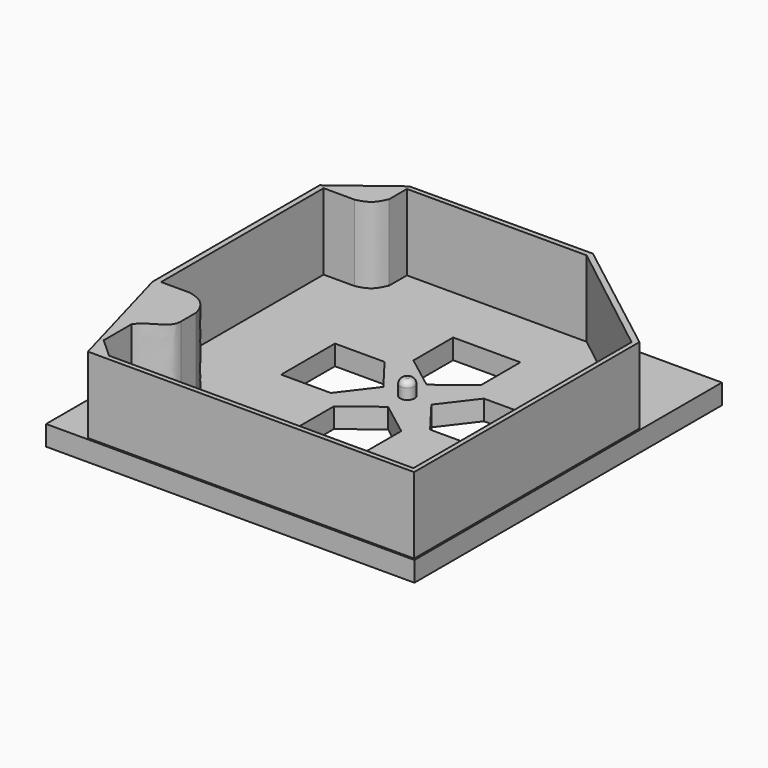
from build123d import *

# Parameters (mm, degrees)
F0_W     = 460
F0_H     = 480
F1_DEPTH = 25
F3_DEPTH = 120
F5_DEPTH = 25
F4_R     = 9
F6_DEPTH = 45
F7_R     = 7


with BuildPart() as f1:
    # F0 (on Top) → F1 (new body)
    with BuildSketch(Plane.XY):
        with Locations((-7.875566, -26.590223)):
            Rectangle(F0_W, F0_H)
    extrude(amount=F1_DEPTH)

    # F2 (on Top) → F3 (join)
    with BuildSketch(Plane.XY):
        Polygon((67.823559, 204.918116), (-160.820395, 204.088688), (-230.491832, 151.282176), (-230.491832, -109.70924), (-187.456321, -264.258176), (219.884232, -264.258176), (219.884232, 87.416694), align=None)
        with BuildLine():
            Line((-159.161553, 170.635357), (-159.161553, 198.282734))
            Line((-159.161553, 198.282734), (65.256598, 198.282734))
            Line((65.256598, 198.282734), (214.078277, 82.440153))
            Line((214.078277, 82.440153), (214.078277, -258.175731))
            Line((214.078277, -258.175731), (-166.073412, -258.175731))
            Line((-166.073412, -258.175731), (-190.403104, -235.951498))
            Line((-190.403104, -235.951498), (-190.403104, -192.651421))
            add(Edge.make_bspline(
                [(-156.396821, -157.539219), (-156.12036, -176.339447), (-179.620609, -176.062971), (-190.403104, -192.651421)],
                knots=[0, 0, 0, 0, 48.880405, 48.880405, 48.880405, 48.880405], degree=3))
            Line((-156.396821, -157.539219), (-156.396821, -134.315416))
            add(Edge.make_bspline(
                [(-156.396821, -134.315416), (-159.714505, -120.768197), (-167.455778, -109.156288), (-187.638372, -105.009183)],
                knots=[0, 0, 0, 0, 42.835614, 42.835614, 42.835614, 42.835614], degree=3))
            Line((-187.638372, -105.009183), (-223.579988, -105.009183))
            Line((-223.579988, -105.009183), (-223.579988, 148.793906))
            Line((-223.579988, 148.793906), (-184.873641, 148.793906))
            add(Edge.make_bspline(
                [(-184.873641, 148.793906), (-169.114619, 152.388066), (-165.243983, 156.81164), (-159.161553, 170.635357)],
                knots=[0, 0, 0, 0, 33.736634, 33.736634, 33.736634, 33.736634], degree=3))
        make_face(mode=Mode.SUBTRACT)
    extrude(amount=F3_DEPTH)

    # F4 (on Top) → F5 (cut, through all)
    with BuildSketch(Plane.XY):
        Polygon((0, 124), (-42, 124), (-42, 62), (0, 30), (42, 62), (42, 124), align=None)
        Polygon((124, 0), (124, 42), (62, 42), (30, 0), (62, -42), (124, -42), align=None)
        Polygon((-124, 0), (-124, -42), (-62, -42), (-30, 0), (-62, 42), (-124, 42), align=None)
        Polygon((0, -124), (42, -124), (42, -62), (0, -30), (-42, -62), (-42, -124), align=None)
    extrude(amount=F5_DEPTH, mode=Mode.SUBTRACT)

    # F4 (on Top) → F6 (join)
    with BuildSketch(Plane.XY):
        Circle(F4_R)
    extrude(amount=F6_DEPTH)

    # F7
    f7_edges = [f1.edges().sort_by_distance(p)[0] for p in [
        (-9, 0, 45),
    ]]
    fillet(f7_edges, radius=F7_R)


solid = f1.part
